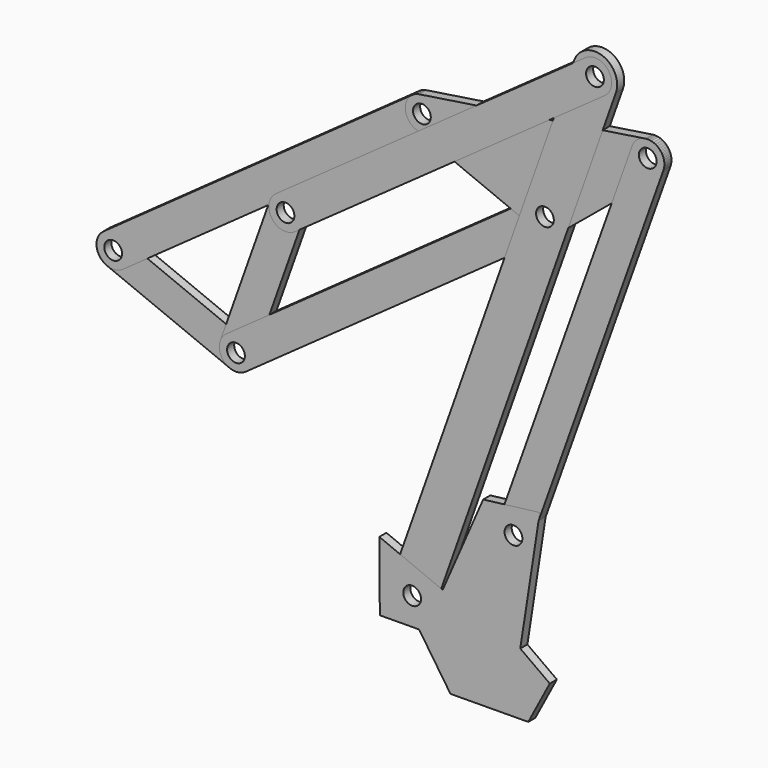
from build123d import *

# Parameters (mm, degrees)
F1_R      = 4
F2_DEPTH  = 4
F3_R      = 4
F4_DEPTH  = 4
F5_R      = 4
F6_DEPTH  = 4
F7_R      = 4
F8_DEPTH  = 4
F9_R      = 4
F10_DEPTH = 4
F11_R     = 4
F12_DEPTH = 4
F13_R     = 4
F14_DEPTH = 4
F15_R     = 4
F16_DEPTH = 4
F17_R     = 4
F18_DEPTH = 4


with BuildPart() as f2:
    # F1 (on Front) → F2 (new body)
    with BuildSketch(Plane.XZ):
        with BuildLine():
            Line((-123.257267, -16.441049), (-67.922452, -39.065303))
            ThreePointArc((-67.922452, -39.065303), (-58.141911, -34.961522), (-62.245692, -25.180981))
            Line((-62.245692, -25.180981), (-117.580507, -2.556727))
            ThreePointArc((-117.580507, -2.556727), (-127.361048, -6.660508), (-123.257267, -16.441049))
        make_face()
        with Locations((-65.084072, -32.123142)):
            Circle(F1_R, mode=Mode.SUBTRACT)
        with Locations((-120.418887, -9.498888)):
            Circle(F1_R, mode=Mode.SUBTRACT)
    extrude(amount=F2_DEPTH)


with BuildPart() as f4:
    # F3 (on Front) → F4 (new body)
    with BuildSketch(Plane.XZ):
        with BuildLine():
            Line((-49.84321, 33.214115), (-72.151754, -29.613585))
            ThreePointArc((-72.151754, -29.613585), (-67.593629, -39.190824), (-58.01639, -34.632699))
            Line((-58.01639, -34.632699), (-35.707846, 28.195001))
            ThreePointArc((-35.707846, 28.195001), (-40.265971, 37.77224), (-49.84321, 33.214115))
        make_face()
        with Locations((-65.084072, -32.123142)):
            Circle(F3_R, mode=Mode.SUBTRACT)
        with Locations((-42.775528, 30.704558)):
            Circle(F3_R, mode=Mode.SUBTRACT)
    extrude(amount=F4_DEPTH)


with BuildPart() as f6:
    # F5 (on Front) → F6 (new body)
    with BuildSketch(Plane.XZ):
        with BuildLine():
            Line((14.320587, 95.951825), (-124.777925, -3.39571))
            ThreePointArc((-124.777925, -3.39571), (-126.522065, -13.857926), (-116.059849, -15.602066))
            Line((-116.059849, -15.602066), (23.038663, 83.745469))
            ThreePointArc((23.038663, 83.745469), (24.782803, 94.207685), (14.320587, 95.951825))
        make_face()
        with Locations((-120.418887, -9.498888)):
            Circle(F5_R, mode=Mode.SUBTRACT)
        with Locations((18.679625, 89.848647)):
            Circle(F5_R, mode=Mode.SUBTRACT)
    extrude(amount=F6_DEPTH)


with BuildPart() as f8:
    # F7 (on Front) → F8 (new body)
    with BuildSketch(Plane.XZ):
        with BuildLine():
            Line((-60.730853, -38.230473), (78.461275, 60.983697))
            ThreePointArc((78.461275, 60.983697), (80.215387, 71.444247), (69.754837, 73.198359))
            Line((69.754837, 73.198359), (-69.437291, -26.015811))
            ThreePointArc((-69.437291, -26.015811), (-71.191403, -36.476361), (-60.730853, -38.230473))
        make_face()
        with Locations((-65.084072, -32.123142)):
            Circle(F7_R, mode=Mode.SUBTRACT)
        with Locations((74.108056, 67.091028)):
            Circle(F7_R, mode=Mode.SUBTRACT)
    extrude(amount=F8_DEPTH)


with BuildPart() as f10:
    # F9 (on Front) → F10 (new body)
    with BuildSketch(Plane.XZ):
        with BuildLine():
            Line((15.831051, 82.910663), (71.259482, 60.153044))
            ThreePointArc((71.259482, 60.153044), (75.233255, 59.675913), (78.886601, 61.310413))
            Line((78.886601, 61.310413), (125.197433, 99.593263))
            ThreePointArc((125.197433, 99.593263), (127.26367, 108.43965), (119.287498, 112.788051))
            Line((119.287498, 112.788051), (17.548235, 97.26282))
            ThreePointArc((17.548235, 97.26282), (11.232738, 90.739641), (15.831051, 82.910663))
        make_face()
        with Locations((74.108056, 67.091028)):
            Circle(F9_R, mode=Mode.SUBTRACT)
        with Locations((18.679625, 89.848647)):
            Circle(F9_R, mode=Mode.SUBTRACT)
        with Locations((120.418888, 105.373878)):
            Circle(F9_R, mode=Mode.SUBTRACT)
    extrude(amount=F10_DEPTH)


with BuildPart() as f12:
    # F11 (on Front) → F12 (new body)
    with BuildSketch(Plane.XZ):
        with BuildLine():
            Line((23.709649, -105.994229), (106.067658, 126.646334))
            ThreePointArc((106.067658, 126.646334), (99.978125, 139.410251), (87.214208, 133.320718))
            Line((87.214208, 133.320718), (4.856199, -99.319845))
            ThreePointArc((4.856199, -99.319845), (10.945732, -112.083762), (23.709649, -105.994229))
        make_face()
        with Locations((14.282924, -102.657037)):
            Circle(F11_R, mode=Mode.SUBTRACT)
        with Locations((74.108056, 67.091028)):
            Circle(F11_R, mode=Mode.SUBTRACT)
        with Locations((96.640933, 129.983526)):
            Circle(F11_R, mode=Mode.SUBTRACT)
    extrude(amount=F12_DEPTH)


with BuildPart() as f14:
    # F13 (on Front) → F14 (new body)
    with BuildSketch(Plane.XZ):
        with BuildLine():
            Line((92.290478, 136.092826), (-47.125983, 36.813858))
            ThreePointArc((-47.125983, 36.813858), (-48.884828, 26.354103), (-38.425073, 24.595258))
            Line((-38.425073, 24.595258), (100.991388, 123.874226))
            ThreePointArc((100.991388, 123.874226), (102.750233, 134.333981), (92.290478, 136.092826))
        make_face()
        with Locations((-42.775528, 30.704558)):
            Circle(F13_R, mode=Mode.SUBTRACT)
        with Locations((96.640933, 129.983526)):
            Circle(F13_R, mode=Mode.SUBTRACT)
    extrude(amount=F14_DEPTH)


with BuildPart() as f16:
    # F15 (on Front) → F16 (new body)
    with BuildSketch(Plane.XZ):
        with BuildLine():
            Line((66.986081, -66.366427), (127.481146, 102.849099))
            ThreePointArc((127.481146, 102.849099), (122.943667, 112.436136), (113.35663, 107.898657))
            Line((113.35663, 107.898657), (52.861565, -61.316869))
            ThreePointArc((52.861565, -61.316869), (57.399044, -70.903906), (66.986081, -66.366427))
        make_face()
        with Locations((59.923823, -63.841648)):
            Circle(F15_R, mode=Mode.SUBTRACT)
        with Locations((120.418888, 105.373878)):
            Circle(F15_R, mode=Mode.SUBTRACT)
    extrude(amount=F16_DEPTH)


with BuildPart() as f18:
    # F17 (on Front) → F18 (new body)
    with BuildSketch(Plane.XZ):
        Polygon((28.011001, -95.892894), (-0.517453, -84.125502), (-0.275649, -115.173539), (17.400214, -115.035879), (31.551197, -135.98428), (66.595517, -135.711352), (76.29007, -117.344066), (62.996185, -107.763713), (71.776663, -50.975425), (46.284683, -54.094495), align=None)
        with Locations((14.282924, -102.657037)):
            Circle(F17_R, mode=Mode.SUBTRACT)
        with Locations((59.923823, -63.841648)):
            Circle(F17_R, mode=Mode.SUBTRACT)
    extrude(amount=F18_DEPTH)


solid = Compound([f2.part, f4.part, f6.part, f8.part, f10.part, f12.part, f14.part, f16.part, f18.part])
